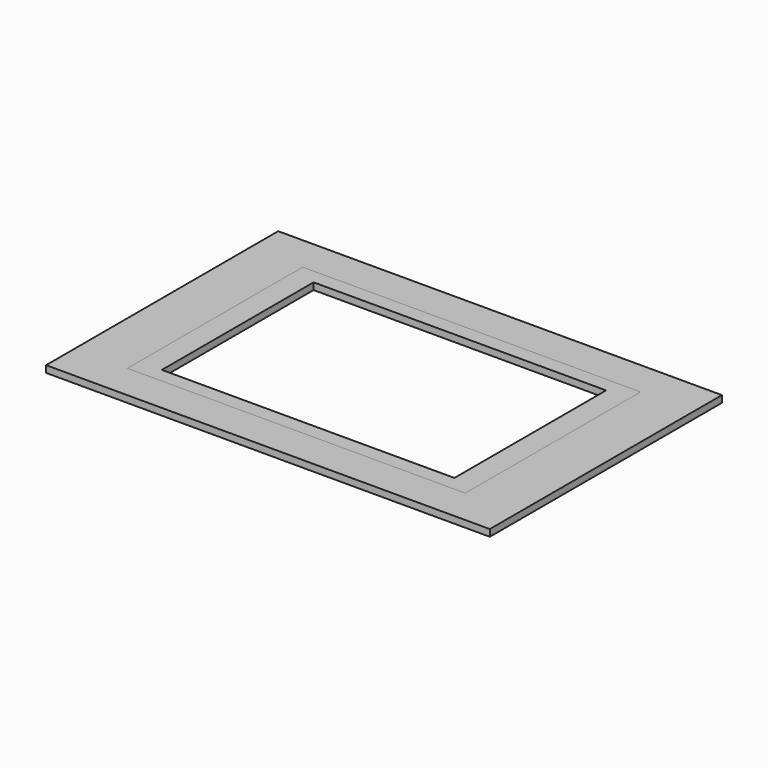
from build123d import *

# Parameters (mm, degrees)
BOX001_W     = 99
BOX001_H     = 64.2
BOX001_DEPTH = 2
BOX_W        = 130
BOX_H        = 85
BOX_DEPTH    = 2
BOX005_W     = 3
BOX005_H     = 50
BOX005_DEPTH = 1
BOX004_W     = 3
BOX004_H     = 50
BOX004_DEPTH = 1
BOX002_W     = 85.7
BOX002_H     = 55.55
BOX002_DEPTH = 2
BOX003_W     = 99
BOX003_H     = 64.2
BOX003_DEPTH = 2


with BuildPart() as cube001:
    # Box001 → Box001 (new body)
    with BuildSketch(Plane(origin=(15.5, 10.4, 0), x_dir=(1, 0, 0), z_dir=(0, 0, 1))):
        with Locations((49.5, 32.1)):
            Rectangle(BOX001_W, BOX001_H)
    extrude(amount=BOX001_DEPTH)


with BuildPart() as cut:
    # Box → Box (new body)
    with BuildSketch(Plane.XY):
        with Locations((65, 42.5)):
            Rectangle(BOX_W, BOX_H)
    extrude(amount=BOX_DEPTH)

    # Cut: cut Cube001
    add(cube001.part, mode=Mode.SUBTRACT)


with BuildPart() as cube005:
    # Box005 → Box005 (new body)
    with BuildSketch(Plane(origin=(109.7, 17, 0), x_dir=(1, 0, 0), z_dir=(0, 0, 1))):
        with Locations((1.5, 25)):
            Rectangle(BOX005_W, BOX005_H)
    extrude(amount=BOX005_DEPTH)


with BuildPart() as cube004:
    # Box004 → Box004 (new body)
    with BuildSketch(Plane(origin=(17.5, 17, 0), x_dir=(1, 0, 0), z_dir=(0, 0, 1))):
        with Locations((1.5, 25)):
            Rectangle(BOX004_W, BOX004_H)
    extrude(amount=BOX004_DEPTH)


with BuildPart() as cube002:
    # Box002 → Box002 (new body)
    with BuildSketch(Plane(origin=(22.15, 14.72, 0), x_dir=(1, 0, 0), z_dir=(0, 0, 1))):
        with Locations((42.85, 27.775)):
            Rectangle(BOX002_W, BOX002_H)
    extrude(amount=BOX002_DEPTH)


with BuildPart() as cut003:
    # Box003 → Box003 (new body)
    with BuildSketch(Plane(origin=(15.5, 10.4, 0), x_dir=(1, 0, 0), z_dir=(0, 0, 1))):
        with Locations((49.5, 32.1)):
            Rectangle(BOX003_W, BOX003_H)
    extrude(amount=BOX003_DEPTH)

    # Cut001: cut Cube002
    add(cube002.part, mode=Mode.SUBTRACT)

    # Cut002: cut Cube004
    add(cube004.part, mode=Mode.SUBTRACT)

    # Cut003: cut Cube005
    add(cube005.part, mode=Mode.SUBTRACT)


solid = Compound([cut.part, cut003.part])
